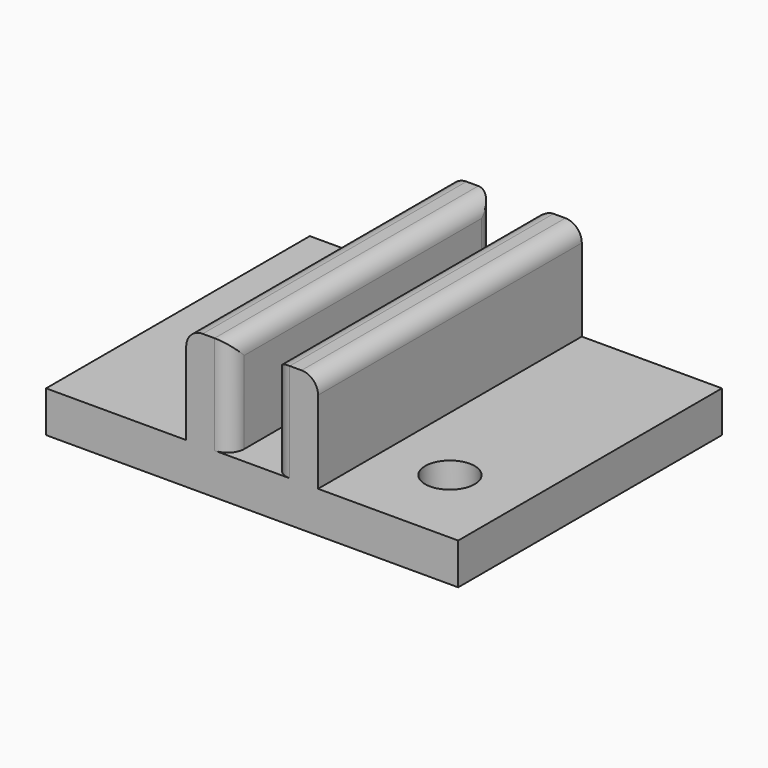
from build123d import *

# Parameters (mm, degrees)
F0_W     = 31.75
F0_H     = 25.4
F1_DEPTH = 3.175
F2_W     = 3.4544
F2_H     = 25.4
F3_DEPTH = 7.62
F4_R     = 1.27
F5_R     = 1.905
F6_DEPTH = 3.175


with BuildPart() as f1:
    # F0 (on Top) → F1 (new body)
    with BuildSketch(Plane.XY):
        Rectangle(F0_W, F0_H)
    extrude(amount=F1_DEPTH)

    # F2 (on face) → F3 (join)
    with BuildSketch(Plane.XY.offset(3.175)):
        with Locations((-3.3528, 0)):
            Rectangle(F2_W, F2_H)
        with Locations((3.3528, 0)):
            Rectangle(F2_W, F2_H)
    extrude(amount=F3_DEPTH)

    # F4
    f4_edges = [f1.edges().sort_by_distance(p)[0] for p in [
        (-1.6256, 0, 10.795),
        (-5.08, 0, 10.795),
        (1.6256, 0, 10.795),
        (5.08, 0, 10.795),
        (1.6256, 12.7, 6.985),
        (-1.6256, 12.7, 6.985),
        (1.6256, -12.7, 6.985),
        (-1.6256, -12.7, 6.985),
    ]]
    fillet(f4_edges, radius=F4_R)

    # F5 (on face) → F6 (cut, through all)
    with BuildSketch(Plane.XY.offset(3.175)):
        with Locations((-10.16, 6.35)):
            Circle(F5_R)
        with Locations((10.16, -6.35)):
            Circle(F5_R)
    extrude(amount=-F6_DEPTH, mode=Mode.SUBTRACT)


solid = f1.part
